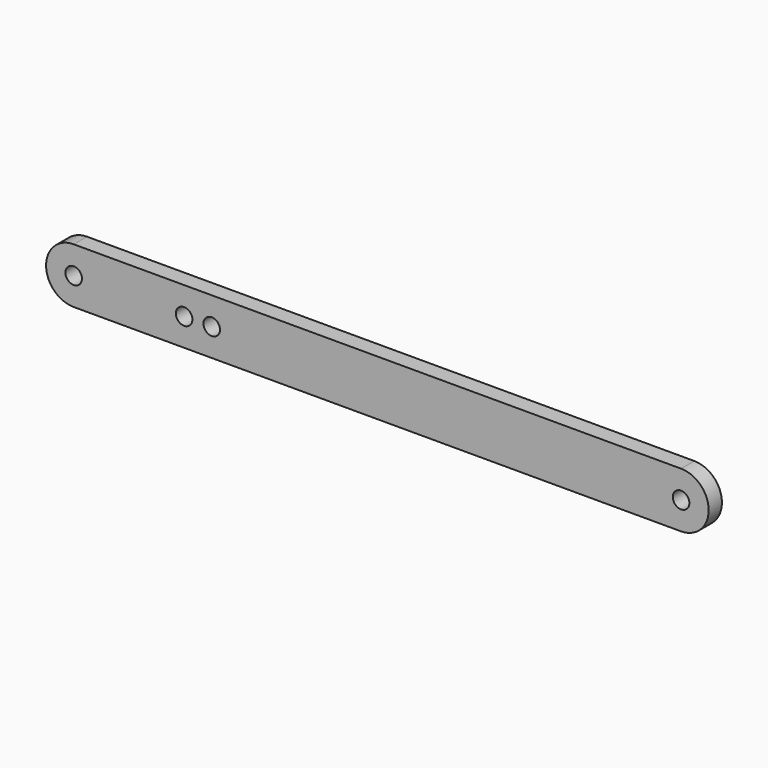
from build123d import *

# Parameters (mm, degrees)
F0_R     = 1.5
F1_DEPTH = 3


with BuildPart() as f1:
    # F0 (on Front) → F1 (new body)
    with BuildSketch(Plane.XZ):
        with BuildLine():
            Line((85, 5), (-25, 5))
            ThreePointArc((-25, 5), (-30, 0), (-25, -5))
            Line((-25, -5), (85, -5))
            ThreePointArc((85, -5), (90, 0), (85, 5))
        make_face()
        with Locations((-25, 0)):
            Circle(F0_R, mode=Mode.SUBTRACT)
        with Locations((-5, 0)):
            Circle(F0_R, mode=Mode.SUBTRACT)
        Circle(F0_R, mode=Mode.SUBTRACT)
        with Locations((85, 0)):
            Circle(F0_R, mode=Mode.SUBTRACT)
    extrude(amount=F1_DEPTH)


solid = f1.part
